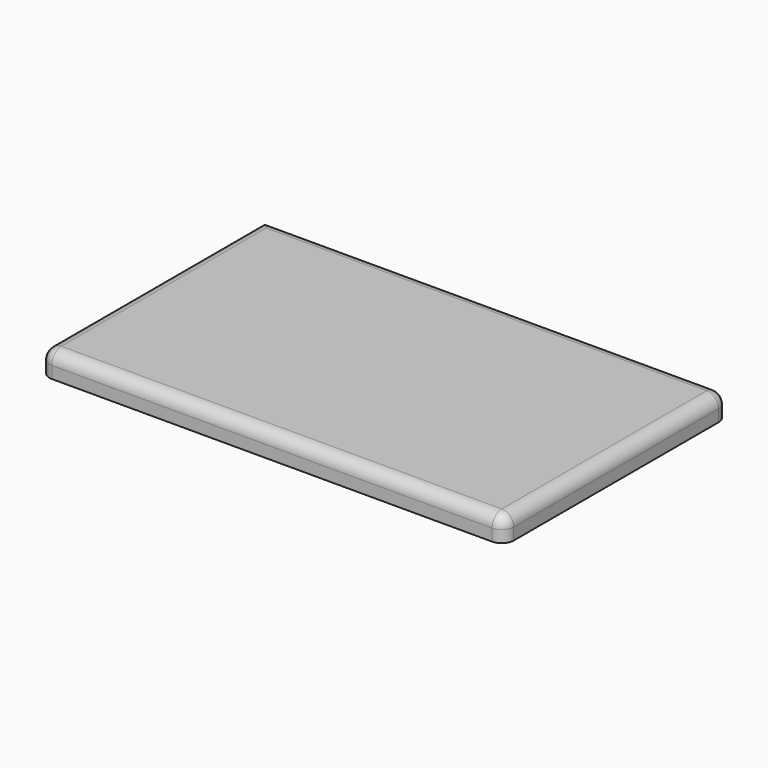
from build123d import *

# Parameters (mm, degrees)
F0_W     = 194
F0_H     = 117
F1_DEPTH = 10
F2_R     = 5
F3_R     = 5
F4_R     = 5


with BuildPart() as f1:
    # F0 (on Top) → F1 (new body)
    with BuildSketch(Plane.XY):
        Rectangle(F0_W, F0_H)
    extrude(amount=F1_DEPTH)

    # F2
    f2_edges = [f1.edges().sort_by_distance(p)[0] for p in [
        (0, -58.5, 10),
    ]]
    fillet(f2_edges, radius=F2_R)

    # F3
    f3_edges = [f1.edges().sort_by_distance(p)[0] for p in [
        (0, -58.5, 5),
        (97, -57.035534, 8.535534),
    ]]
    fillet(f3_edges, radius=F3_R)

    # F4
    f4_edges = [f1.edges().sort_by_distance(p)[0] for p in [
        (97, 2.5, 5),
        (95.535534, 58.5, 8.535534),
        (-97, -57.035534, 8.535534),
    ]]
    fillet(f4_edges, radius=F4_R)


solid = f1.part
